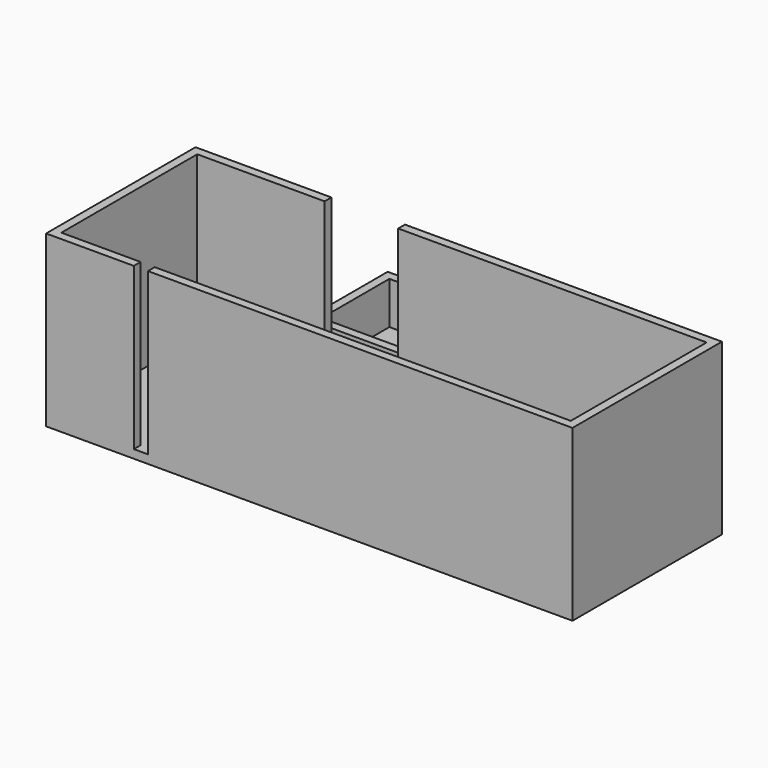
from build123d import *

# Parameters (mm, degrees)
F2_DEPTH = 3
F4_DEPTH = 18
F0_W     = 5
F0_H     = 3
F0_W_2   = 26
F5_DEPTH = 3
F7_DEPTH = 60


with BuildPart() as f2:
    # F1 (on Top) → F2 (new body)
    with BuildSketch(Plane.XY):
        Polygon((3.5, 38), (52.5, 38), (52.5, 68), (-52.5, 68), (-52.5, 38), (-3.5, 38), align=None)
    extrude(amount=F2_DEPTH)

    # F3 (on Top) → F4 (join)
    with BuildSketch(Plane.XY):
        Polygon((52.5, 68), (52.5, 38), (3.5, 38), (3.5, 35), (55.5, 35), (55.5, 71), (-55.5, 71), (-55.5, 35), (-3.5, 35), (-3.5, 38), (-52.5, 38), (-52.5, 68), align=None)
    extrude(amount=F4_DEPTH)


with BuildPart() as f5:
    # F0 (on Top) → F5 (new body)
    with BuildSketch(Plane.XY):
        Polygon((-57, -30), (90, -30), (90, 30), (-19, 30), (-45, 30), (-90, 30), (-90, -30), (-62, -30), align=None)
        with Locations((-59.5, -31.5)):
            Rectangle(F0_W, F0_H)
        with Locations((-32, 31.5)):
            Rectangle(F0_W_2, F0_H)
    extrude(amount=F5_DEPTH)

    # F6 (on Top) → F7 (join)
    with BuildSketch(Plane.XY):
        Polygon((90, 30), (90, -30), (-57, -30), (-57, -33), (93, -33), (93, 33), (-19, 33), (-19, 30), align=None)
        Polygon((-62, -33), (-62, -30), (-90, -30), (-90, 30), (-45, 30), (-45, 33), (-93, 33), (-93, -33), align=None)
    extrude(amount=F7_DEPTH)


solid = Compound([f2.part, f5.part])
